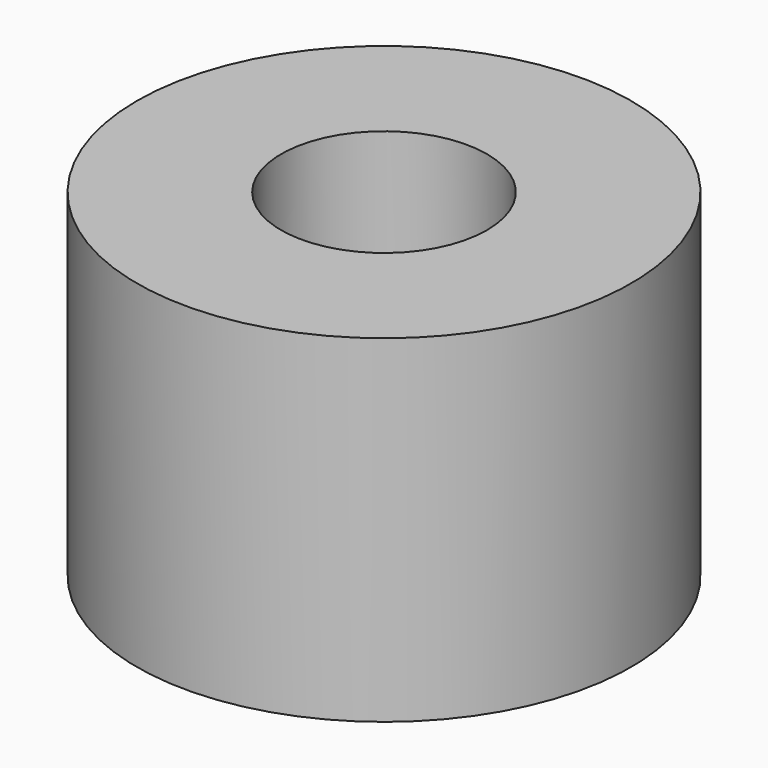
from build123d import *

# Parameters (mm, degrees)
CYLINDER076_R          = 1.25
CYLINDER076_DEPTH      = 5
CYLINDER077_R          = 3
CYLINDER077_DEPTH      = 4.1
CUT039_PLACEMENT_ANGLE = 90


with BuildPart() as b_w016:
    # Cylinder076 → Cylinder076 (new body)
    with BuildSketch(Plane(origin=(2, 6, 26), x_dir=(0, 0, 1), z_dir=(-1, 0, 0))):
        Circle(CYLINDER076_R)
    extrude(amount=CYLINDER076_DEPTH)


with BuildPart() as obj1:
    # Cylinder077 → Cylinder077 (new body)
    with BuildSketch(Plane(origin=(-1, 6, 26), x_dir=(0, 0, -1), z_dir=(1, 0, 0))):
        Circle(CYLINDER077_R)
    extrude(amount=CYLINDER077_DEPTH)

    # Cut039: cut B_W016
    add(b_w016.part, mode=Mode.SUBTRACT)


with BuildPart() as obj1_1:
    # Cut039 placement: moved
    add(obj1.part.moved(Location((-18, 1.5, 3))).rotate(Axis((-18, 1.5, 3), (0, 1, 0)), CUT039_PLACEMENT_ANGLE))


solid = obj1_1.part
